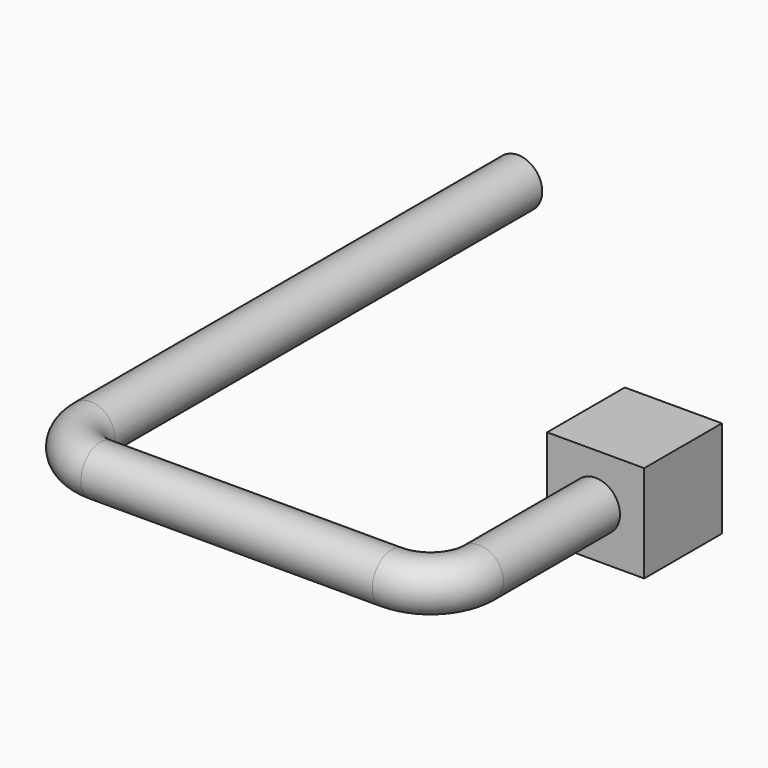
from build123d import *

# Parameters (mm, degrees)
F1_R     = 38.1
F3_W     = 152.4
F3_H     = 152.4
F4_DEPTH = 152.4


with BuildPart() as f2:
    # F2: sweep along a path in F0
    with BuildLine(Plane.XY) as f2_path:
        Line((0, 0), (0, -228.6))
        ThreePointArc((0, -228.6), (-22.3184632736, -282.4815367264), (-76.2, -304.8))
        Line((-76.2, -304.8), (-533.4, -304.8))
        ThreePointArc((-533.4, -304.8), (-587.2815367264, -282.4815367264), (-609.6, -228.6))
        Line((-609.6, -228.6), (-609.6, 609.6))
    # F1 (on Front) → F2 (sweep)
    with BuildSketch(Plane.XZ):
        Circle(F1_R)
    sweep(path=f2_path.line)


with BuildPart() as f4:
    # F3 (on Front) → F4 (new body)
    with BuildSketch(Plane.XZ):
        Rectangle(F3_W, F3_H)
    extrude(amount=-F4_DEPTH)


solid = Compound([f2.part, f4.part])
